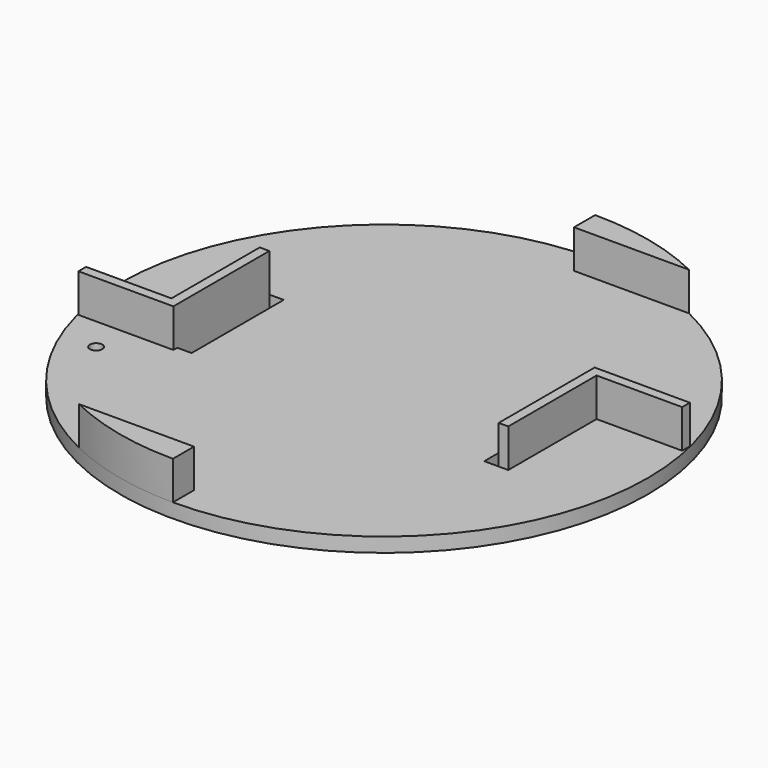
from build123d import *

# Parameters (mm, degrees)
SKETCH_R     = 55
PAD_DEPTH    = 3
PAD001_DEPTH = 8
PAD002_DEPTH = 8
SKETCH003_R  = 1.3
SKETCH003_W  = 3
SKETCH003_H  = 24
POCKET_DEPTH = 5


with BuildPart() as part:
    # Sketch → Pad (new body)
    with BuildSketch(Plane.XY):
        Circle(SKETCH_R)
    extrude(amount=PAD_DEPTH)

    # Sketch001 (on Face3 of Pad) → Pad001 (join)
    with BuildSketch(Plane.XY.offset(3)):
        Polygon((33.500008, 0), (33.500008, 13), (53.345406, 13), (53.345406, 11), (35.5, 11), (35.5, -0.005684), (35.5, -12), (33.500008, -12), align=None)
        Polygon((-33.5, 0), (-33.5, -13), (-53.293575, -13), (-53.293575, -11), (-35.5, -11), (-35.5, 0.001212), (-35.5, 12), (-33.5, 12), align=None)
    extrude(amount=PAD001_DEPTH)

    # Sketch002 (on Face3 of Pad001) → Pad002 (join)
    with BuildSketch(Plane.XY.offset(3)):
        with BuildLine():
            ThreePointArc((-23.973944, -49.5), (-12.298374, -53.607369), (0, -55))
            Line((0, -49.5), (0, -55))
            Line((-23.973944, -49.5), (0, -49.5))
        make_face()
        with BuildLine():
            ThreePointArc((23.973944, 49.5), (12.298374, 53.607369), (0, 55))
            Line((0, 49.5), (0, 55))
            Line((23.973944, 49.5), (0, 49.5))
        make_face()
    extrude(amount=PAD002_DEPTH)

    # Sketch003 (on Face3 of Pad002) → Pocket (cut)
    with BuildSketch(Plane.XY.offset(3)):
        with Locations((-44, -20)):
            Circle(SKETCH003_R)
        with Locations((44, 20)):
            Circle(SKETCH003_R)
        with Locations((32, 0)):
            Rectangle(SKETCH003_W, SKETCH003_H)
        with Locations((-32, 0)):
            Rectangle(SKETCH003_W, SKETCH003_H)
    extrude(amount=-POCKET_DEPTH, mode=Mode.SUBTRACT)


solid = part.part
